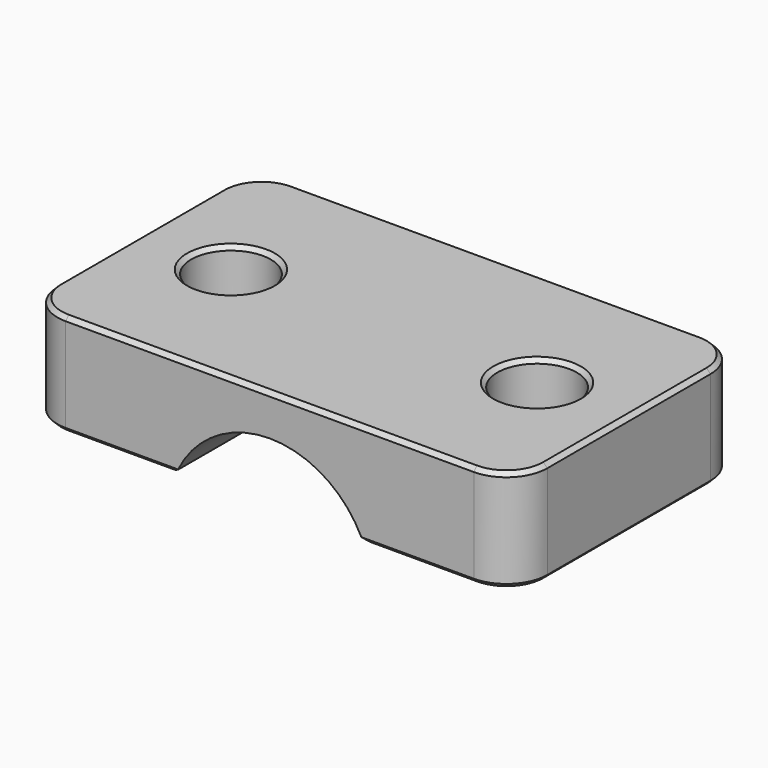
from build123d import *

# Parameters (mm, degrees)
CYLINDER_R          = 5
CYLINDER_DEPTH      = 20
CYLINDER_ROLL_ANGLE = 90
BOX_W               = 24
BOX_H               = 14
BOX_DEPTH           = 5
SKETCH001_R         = 1.95
POCKET_DEPTH        = 15
FILLET_R            = 2
CHAMFER_SIZE        = 0.2
CHAMFER001_SIZE     = 0.2


with BuildPart() as zylinder:
    # Cylinder → Cylinder (new body)
    with BuildSketch(Plane.XY):
        Circle(CYLINDER_R)
    extrude(amount=CYLINDER_DEPTH)


with BuildPart() as zylinder_1:
    # Cylinder roll: moved
    add(zylinder.part.rotate(Axis((0, 0, 0), (1, 0, 0)), CYLINDER_ROLL_ANGLE))


with BuildPart() as zylinder_2:
    # Cylinder placement: moved
    add(zylinder_1.part.moved(Location((0, 10, -2))))


with BuildPart() as chamfer001:
    # Box → Box (new body)
    with BuildSketch(Plane(origin=(-12, -7, 0), x_dir=(1, 0, 0), z_dir=(0, 0, 1))):
        with Locations((12, 7)):
            Rectangle(BOX_W, BOX_H)
    extrude(amount=BOX_DEPTH)

    # Cut: cut Zylinder
    add(zylinder_2.part, mode=Mode.SUBTRACT)

    # Sketch001 → Pocket (cut)
    with BuildSketch(Plane(origin=(0, 0, 0), x_dir=(1, 0, 0), z_dir=(0, 0, -1))):
        with Locations((-7.5, 0)):
            Circle(SKETCH001_R)
        with Locations((7.5, 0)):
            Circle(SKETCH001_R)
    extrude(amount=-POCKET_DEPTH, mode=Mode.SUBTRACT)

    # Fillet
    fillet_edges = [chamfer001.edges().sort_by_distance(p)[0] for p in [
        (-12, 7, 2.5),
        (-12, -7, 2.5),
        (12, -7, 2.5),
        (12, 7, 2.5),
    ]]
    fillet(fillet_edges, radius=FILLET_R)

    # Chamfer
    chamfer_edges = [chamfer001.edges().sort_by_distance(p)[0] for p in [
        (-12, 0, 0),
        (-11.414214, 6.414214, 0),
        (-7.291288, 7, 0),
        (-4.582576, 0, 0),
        (-7.291288, -7, 0),
        (-11.414214, -6.414214, 0),
        (4.582576, 0, 0),
        (7.291288, -7, 0),
        (11.414214, -6.414214, 0),
        (12, 0, 0),
        (11.414214, 6.414214, 0),
        (7.291288, 7, 0),
        (-9.45, 0, 0),
        (5.55, 0, 0),
    ]]
    chamfer(chamfer_edges, length=CHAMFER_SIZE)

    # Chamfer001
    chamfer001_edges = [chamfer001.edges().sort_by_distance(p)[0] for p in [
        (0, 7, 5),
        (11.414214, 6.414214, 5),
        (12, 0, 5),
        (11.414214, -6.414214, 5),
        (0, -7, 5),
        (-11.414214, -6.414214, 5),
        (-12, 0, 5),
        (-11.414214, 6.414214, 5),
        (-9.45, 0, 5),
        (5.55, 0, 5),
    ]]
    chamfer(chamfer001_edges, length=CHAMFER001_SIZE)


solid = chamfer001.part
